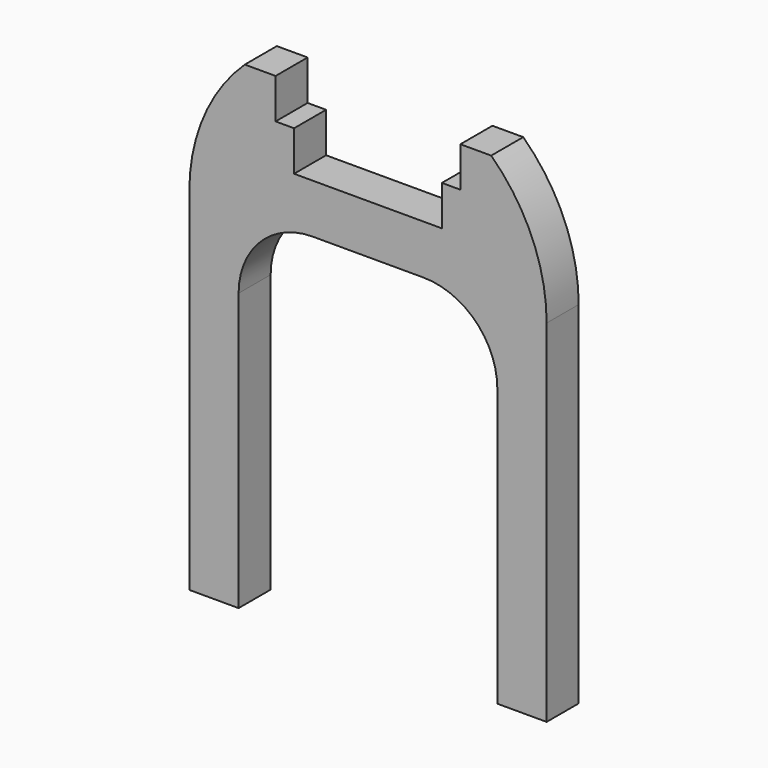
from build123d import *

# Parameters (mm, degrees)
F1_DEPTH = 3.25


with BuildPart() as f1:
    # F0 (on Front) → F1 (new body, symmetric)
    with BuildSketch(Plane.XZ):
        with BuildLine():
            Line((12, 6.5), (12, 0))
            Line((12, 0), (-12, 0))
            Line((-12, 0), (-12, 6.5))
            Line((-12, 6.5), (-15, 6.5))
            Line((-15, 6.5), (-15, 13))
            Line((-15, 13), (-20, 13))
            ThreePointArc((-20, 13), (-26.655206, 3.42366), (-29, -8))
            Line((-29, -8), (-29, -65))
            Line((-29, -65), (-21, -65))
            Line((-21, -65), (-21, -20))
            ThreePointArc((-21, -20), (-17.485281, -11.514719), (-9, -8))
            Line((-9, -8), (9, -8))
            ThreePointArc((9, -8), (17.485281, -11.514719), (21, -20))
            Line((21, -20), (21, -65))
            Line((21, -65), (29, -65))
            Line((29, -65), (29, -8))
            ThreePointArc((29, -8), (26.655206, 3.42366), (20, 13))
            Line((20, 13), (15, 13))
            Line((15, 13), (15, 6.5))
            Line((15, 6.5), (12, 6.5))
        make_face()
    extrude(amount=F1_DEPTH, both=True)


solid = f1.part
